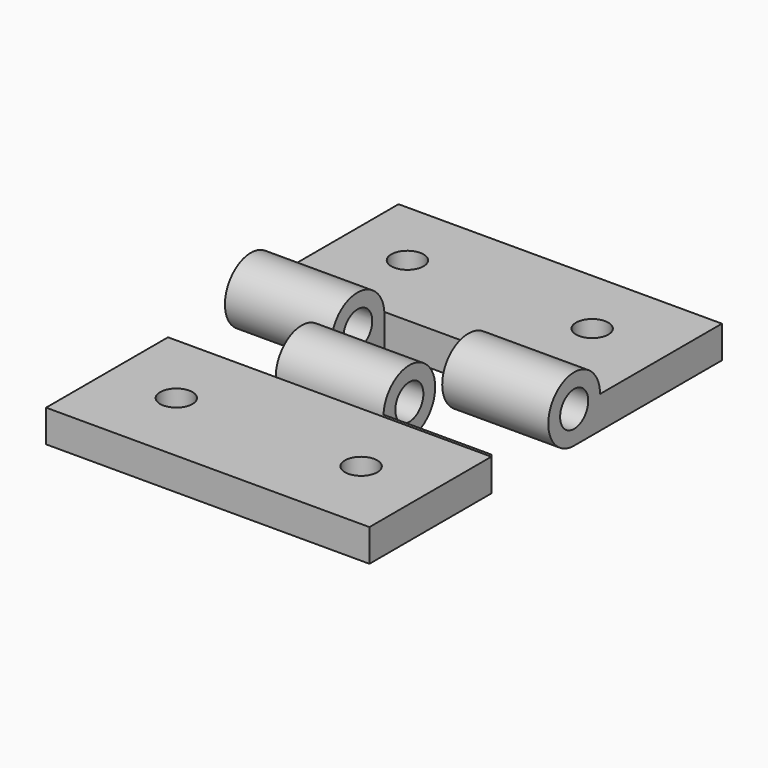
from build123d import *

# Parameters (mm, degrees)
F0_W           = 44.45
F0_H           = 25.4
F2_DEPTH       = 4.445
F3_DEPTH       = 4.445
F1_R           = 4.445
F4_DEPTH       = 44.45
F6_W           = 14.8082
F6_H           = 8.89
F6_W_2         = 14.859
F7_DEPTH       = 5.08
F7_DEPTH_BACK  = 5.08
F8_DEPTH       = 5.08
F8_DEPTH_BACK  = 5.08
F9_R           = 2.413
F10_DEPTH      = 44.451
F11_R          = 2.413
F12_DEPTH      = 44.451
F13_R          = 2.2225
F14_DEPTH      = 4.446
F14_DEPTH_BACK = 4.446
F15_R          = 2.2225
F16_DEPTH      = 4.446


with BuildPart() as f2:
    # F0 (on Top) → F2 (new body)
    with BuildSketch(Plane.XY):
        with Locations((22.225, 17.9148047835)):
            Rectangle(F0_W, F0_H)
    extrude(amount=-F2_DEPTH)


with BuildPart() as f3:
    # F0 (on Top) → F3 (new body)
    with BuildSketch(Plane.XY):
        with Locations((22.225, -17.2478769302)):
            Rectangle(F0_W, F0_H)
    extrude(amount=-F3_DEPTH)


with BuildPart() as f4:
    # F1 (on Right) → F4 (new body)
    with BuildSketch(Plane.YZ):
        with Locations((5.2246893756, 0)):
            Circle(F1_R)
    extrude(amount=F4_DEPTH)


with BuildPart() as f4b:
    # F1 (on Right) → F4, piece 2 (new body)
    with BuildSketch(Plane.YZ):
        with Locations((-4.5553469099, 0)):
            Circle(F1_R)
    extrude(amount=F4_DEPTH)


with BuildPart() as f4_1:
    add(f4.part)

    # F5: union F2, F4b, F3
    add(f2.part)
    add(f4b.part)
    add(f3.part)

    # F6 (on Top) → F7 (cut, two sides)
    with BuildSketch(Plane.XY) as f7_sk:
        with Locations((7.4041, -4.5553469099)):
            Rectangle(F6_W, F6_H)
        with Locations((37.0459, -4.5478769302)):
            Rectangle(F6_W_2, F6_H)
    extrude(amount=-F7_DEPTH, mode=Mode.SUBTRACT)
    extrude(f7_sk.sketch, amount=F7_DEPTH_BACK, mode=Mode.SUBTRACT)

    # F6 (on Top) → F8 (cut, two sides)
    with BuildSketch(Plane.XY) as f8_sk:
        Polygon((30.0513568694, 9.6598047835), (14.8082, 9.6598047835), (14.6272431306, 0.7698047835), (29.8704, 0.7698047835), align=None)
    extrude(amount=-F8_DEPTH, mode=Mode.SUBTRACT)
    extrude(f8_sk.sketch, amount=F8_DEPTH_BACK, mode=Mode.SUBTRACT)

    # F9 (on face) → F10 (cut, through all)
    with BuildSketch(Plane.YZ):
        with Locations((-4.5553469099, 0)):
            Circle(F9_R)
    extrude(amount=F10_DEPTH, mode=Mode.SUBTRACT)

    # F11 (on face) → F12 (cut, through all)
    with BuildSketch(Plane.YZ):
        with Locations((5.2246893756, 0)):
            Circle(F11_R)
    extrude(amount=F12_DEPTH, mode=Mode.SUBTRACT)

    # F13 (on face) → F14 (cut, two sides)
    with BuildSketch(Plane.XY) as f14_sk:
        with Locations((8.89, 21.0234560072)):
            Circle(F13_R)
        with Locations((34.29, 21.0234560072)):
            Circle(F13_R)
    extrude(amount=-F14_DEPTH, mode=Mode.SUBTRACT)
    extrude(f14_sk.sketch, amount=F14_DEPTH_BACK, mode=Mode.SUBTRACT)

    # F15 (on face) → F16 (cut, through all)
    with BuildSketch(Plane.XY):
        with Locations((34.925, -19.4741119201)):
            Circle(F15_R)
        with Locations((9.525, -19.4741119201)):
            Circle(F15_R)
    extrude(amount=-F16_DEPTH, mode=Mode.SUBTRACT)


solid = f4_1.part
